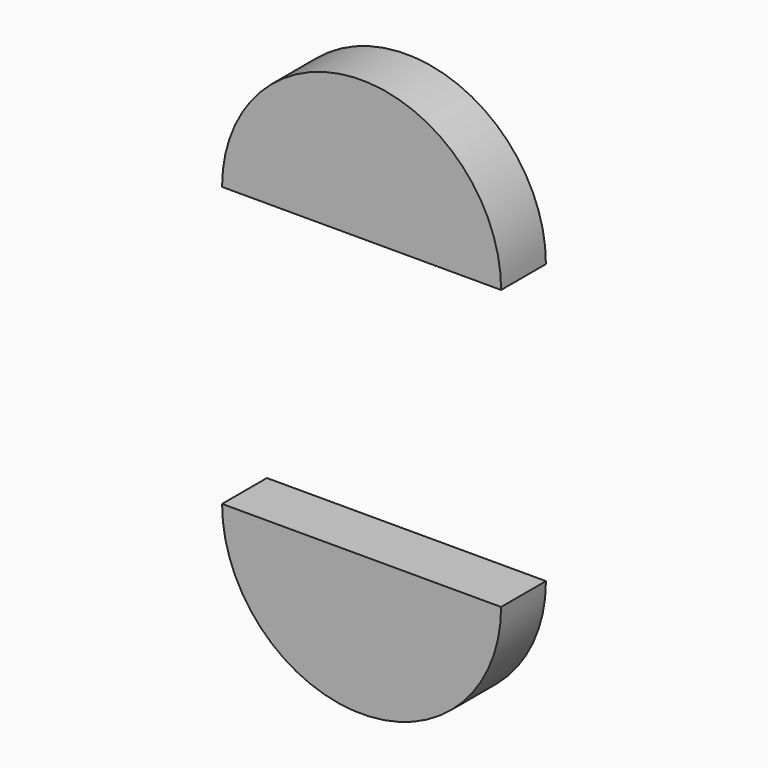
from build123d import *

# Parameters (mm, degrees)
F1_DEPTH = 25.4
F2_DEPTH = 25.4


with BuildPart() as f1:
    # F0 (on Front) → F1 (new body)
    with BuildSketch(Plane.XZ):
        with BuildLine():
            Line((-63.263892, 63.263892), (0, 63.263892))
            Line((0, 63.263892), (63.263892, 63.263892))
            ThreePointArc((63.263892, 63.263892), (0, 126.527783), (-63.263892, 63.263892))
        make_face()
    extrude(amount=F1_DEPTH)


with BuildPart() as f2:
    # F0 (on Front) → F2 (new body)
    with BuildSketch(Plane.XZ):
        with BuildLine():
            Line((63.263892, -63.263892), (0, -63.263892))
            Line((0, -63.263892), (-63.263892, -63.263892))
            ThreePointArc((-63.263892, -63.263892), (0, -126.527783), (63.263892, -63.263892))
        make_face()
    extrude(amount=F2_DEPTH)


solid = Compound([f1.part, f2.part])
